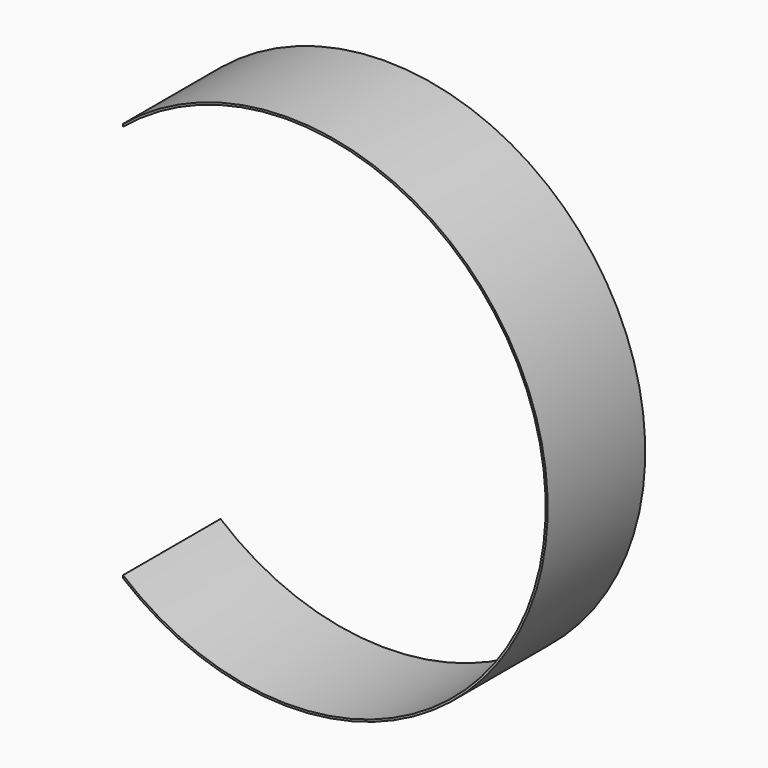
from build123d import *

# Parameters (mm, degrees)
F1_DEPTH = 90


with BuildPart() as f1:
    # F0 (on Front) → F1 (new body)
    with BuildSketch(Plane.XZ):
        with BuildLine():
            ThreePointArc((-122, 145.6571316483), (80.3741251896, 172.1627137333), (190, 0))
            ThreePointArc((190, 0), (80.3741251896, -172.1627137333), (-122, -145.6571316483))
            Line((-122, -145.6571316483), (-122, -147.6084347183))
            ThreePointArc((-122, -147.6084347183), (81.5758849171, -173.2559522787), (191.5, 0))
            ThreePointArc((191.5, 0), (81.5758849171, 173.2559522787), (-122, 147.6084347183))
            Line((-122, 147.6084347183), (-122, 145.6571316483))
        make_face()
    extrude(amount=F1_DEPTH)


solid = f1.part
